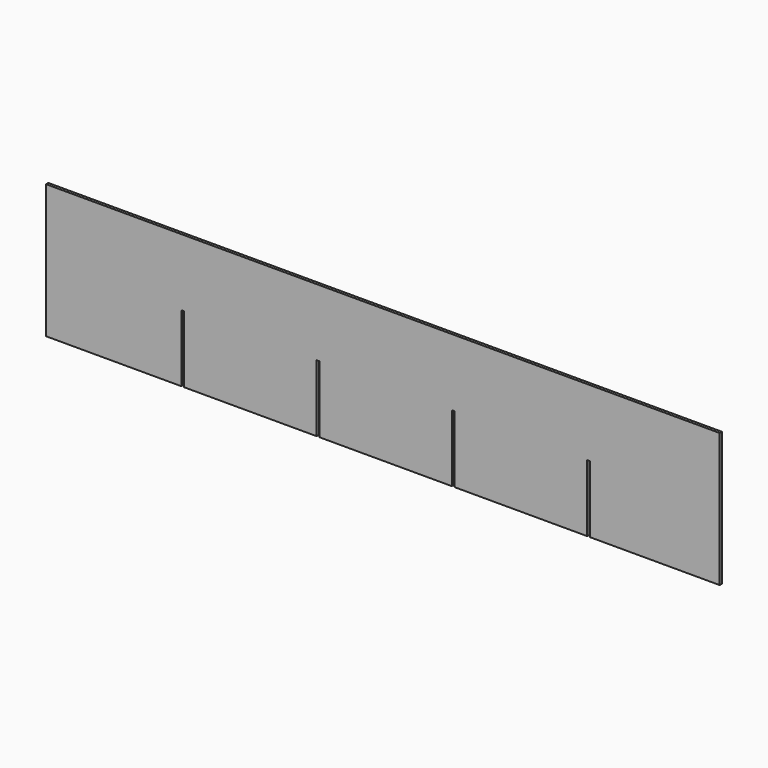
from build123d import *

# Parameters (mm, degrees)
F1_DEPTH = 1


with BuildPart() as f1:
    # F0 (on Front) → F1 (new body, symmetric)
    with BuildSketch(Plane.XZ):
        Polygon((-239, 47.5), (-239, -47.5), (-143, -47.5), (-143, 0), (-141, 0), (-141, -47.5), (-47, -47.5), (-47, 0), (-45, 0), (-45, -47.5), (49, -47.5), (49, 0), (51, 0), (51, -47.5), (145, -47.5), (145, 0), (147, 0), (147, -47.5), (239, -47.5), (239, 47.5), align=None)
    extrude(amount=F1_DEPTH, both=True)


solid = f1.part
